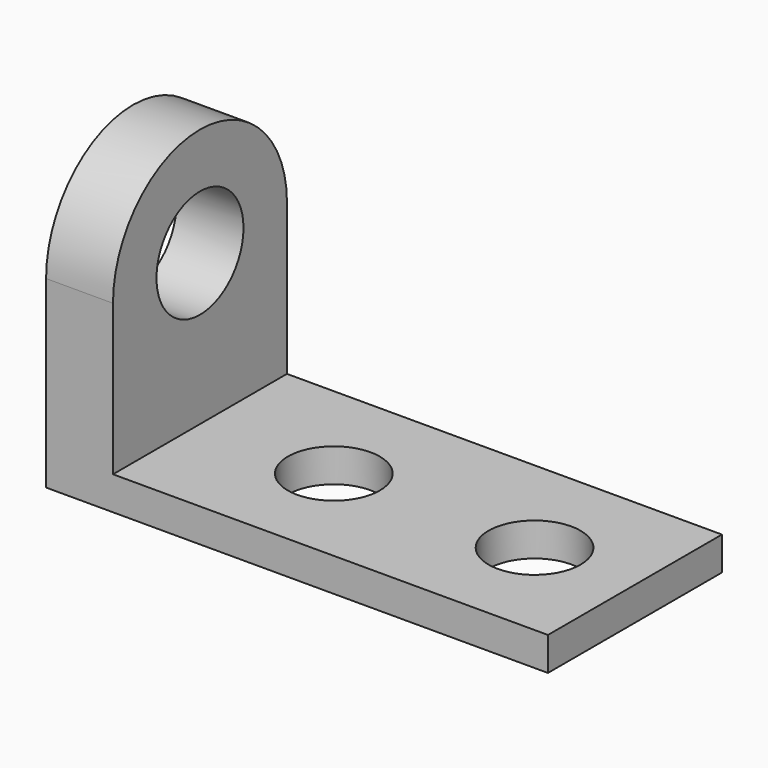
from build123d import *

# Parameters (mm, degrees)
F1_DEPTH  = 82.55
F2_R      = 17.4625
F3_DEPTH  = 12.7
F4_R      = 17.4625
F5_DEPTH  = 12.7
F6_DEPTH  = 57.15
F8_DEPTH  = 25.4
F9_R      = 20.6375
F10_DEPTH = 25.4


with BuildPart() as f1:
    # F0 (on Front) → F1 (new body)
    with BuildSketch(Plane.XZ):
        Polygon((-95.25, 0), (0, 0), (95.25, 0), (95.25, 12.7), (-69.85, 12.7), (-69.85, 57.15), (-95.25, 57.15), align=None)
    extrude(amount=F1_DEPTH)

    # F2 (on face) → F3 (cut)
    with BuildSketch(Plane.XY.offset(12.7)):
        with Locations((-19.05, -41.275)):
            Circle(F2_R)
    extrude(amount=-F3_DEPTH, mode=Mode.SUBTRACT)

    # F4 (on face) → F5 (cut)
    with BuildSketch(Plane.XY.offset(12.7)):
        with Locations((57.15, -41.275)):
            Circle(F4_R)
    extrude(amount=-F5_DEPTH, mode=Mode.SUBTRACT)

    # F6 (add): a face of the model
    f6_faces = [f1.faces().sort_by_distance(p)[0] for p in [
        (-82.55, -41.275, 57.15),
    ]]
    extrude(f6_faces, amount=F6_DEPTH)

    # F7 (on face) → F8 (cut)
    with BuildSketch(Plane.YZ.offset(-69.85)):
        with BuildLine():
            ThreePointArc((-82.55, 69.85), (-41.275, 111.125), (0, 69.85))
            Line((0, 69.85), (0, 114.3))
            Line((0, 114.3), (-82.55, 114.3))
            Line((-82.55, 114.3), (-82.55, 69.85))
        make_face()
    extrude(amount=-F8_DEPTH, mode=Mode.SUBTRACT)

    # F9 (on face) → F10 (cut)
    with BuildSketch(Plane.YZ.offset(-69.85)):
        with Locations((-41.275, 69.85)):
            Circle(F9_R)
    extrude(amount=-F10_DEPTH, mode=Mode.SUBTRACT)


solid = f1.part
